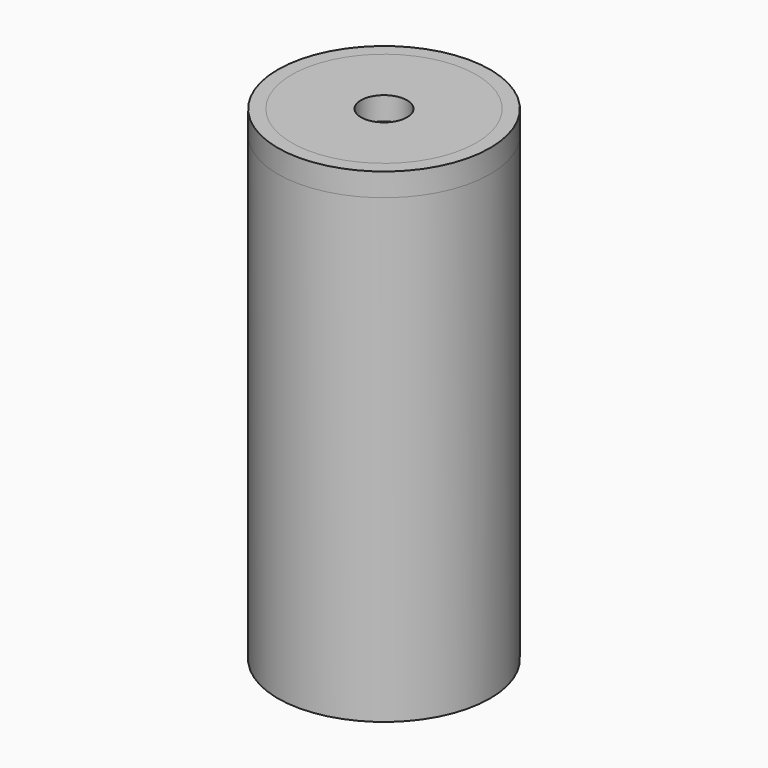
from build123d import *

# Parameters (mm, degrees)
F0_R        = 29.21
F0_R_2      = 25.4
F1_DEPTH    = 127
F2_R        = 25.4
F2_R_2      = 6.35
F3_DEPTH    = 6.35
F1_FACE_R   = 29.21
F1_FACE_R_2 = 25.4
F4_DEPTH    = 6.35


with BuildPart() as f1:
    # F0 (on Top) → F1 (new body)
    with BuildSketch(Plane.XY):
        Circle(F0_R)
        Circle(F0_R_2, mode=Mode.SUBTRACT)
    extrude(amount=F1_DEPTH)


with BuildPart() as f3:
    # F2 (on face) → F3 (new body)
    with BuildSketch(Plane.XY.offset(127)):
        Circle(F2_R)
        Circle(F2_R_2, mode=Mode.SUBTRACT)
    extrude(amount=F3_DEPTH)


with BuildPart() as f4:
    # F1_face (on face) → F4 (new body)
    with BuildSketch(Plane.XY.offset(127)):
        Circle(F1_FACE_R)
        Circle(F1_FACE_R_2, mode=Mode.SUBTRACT)
    extrude(amount=F4_DEPTH)


solid = Compound([f1.part, f3.part, f4.part])
